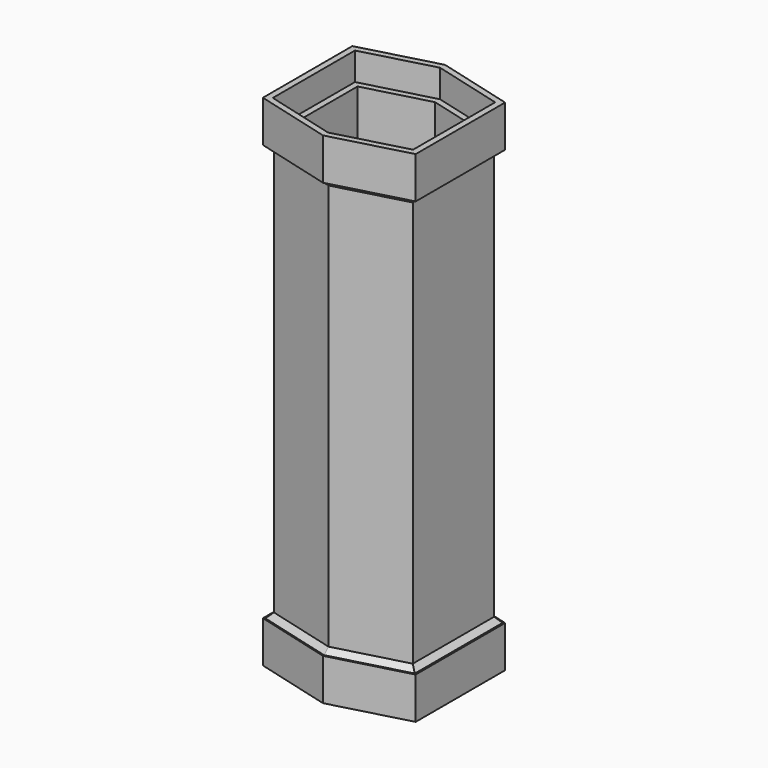
from build123d import *

# Parameters (mm, degrees)
PAD005_DEPTH = 180
PAD004_DEPTH = 10
PAD002_DEPTH = 15
PAD003_DEPTH = 10
PAD001_DEPTH = 15
PAD_DEPTH    = 150
CHAMFER_SIZE = 1.9


with BuildPart() as body005:
    # Sketch005 → Pad005 (new body)
    with BuildSketch(Plane.XY):
        Polygon((0, 23), (23, 16.837169), (23, -16.837169), (0, -23), (-23, -16.837169), (-23, 16.837169), align=None)
    extrude(amount=PAD005_DEPTH)


with BuildPart() as body004:
    # Sketch004 → Pad004 (new body)
    with BuildSketch(Plane.XY):
        Polygon((0, 25.25), (25.25, 18.484283), (25.25, -18.484283), (0, -25.25), (-25.25, -18.484283), (-25.25, 18.484283), align=None)
    extrude(amount=PAD004_DEPTH)


with BuildPart() as body004_1:
    # Body004 placement: moved
    add(body004.part.moved(Location((0, 0, 5))))


with BuildPart() as cut001:
    # Sketch002 → Pad002 (new body)
    with BuildSketch(Plane.XY):
        Polygon((0, 27.5), (27.5, 20.131397), (27.5, -20.131397), (0, -27.5), (-27.5, -20.131397), (-27.5, 20.131397), align=None)
    extrude(amount=PAD002_DEPTH)

    # Cut001: cut Body004
    add(body004_1.part, mode=Mode.SUBTRACT)


with BuildPart() as cut001_1:
    # Cut001 placement: moved
    add(cut001.part.moved(Location((0, 0, 165))))


with BuildPart() as body003:
    # Sketch003 → Pad003 (new body)
    with BuildSketch(Plane.XY):
        Polygon((0, 25.25), (25.25, 18.484283), (25.25, -18.484283), (0, -25.25), (-25.25, -18.484283), (-25.25, 18.484283), align=None)
    extrude(amount=PAD003_DEPTH)


with BuildPart() as cut:
    # Sketch001 → Pad001 (new body)
    with BuildSketch(Plane.XY):
        Polygon((0, 27.5), (27.5, 20.131397), (27.5, -20.131397), (0, -27.5), (-27.5, -20.131397), (-27.5, 20.131397), align=None)
    extrude(amount=PAD001_DEPTH)

    # Cut: cut Body003
    add(body003.part, mode=Mode.SUBTRACT)


with BuildPart() as chamfer_body:
    # Sketch → Pad (new body)
    with BuildSketch(Plane.XY):
        Polygon((0, 25), (25, 18.30127), (25, -18.30127), (0, -25), (-25, -18.30127), (-25, 18.30127), align=None)
    extrude(amount=PAD_DEPTH)


with BuildPart() as chamfer_body_1:
    # Body placement: moved
    add(chamfer_body.part.moved(Location((0, 0, 15))))

    # Fusion: union Cut
    add(cut.part)

    # Fusion001: union Cut001
    add(cut001_1.part)

    # Cut002: cut Body005
    add(body005.part, mode=Mode.SUBTRACT)

    # Chamfer
    chamfer_edges = [chamfer_body_1.edges().sort_by_distance(p)[0] for p in [
        (-25, 0, 165),
        (-12.5, -21.650635, 165),
        (12.5, -21.650635, 165),
        (25, 0, 165),
        (12.5, 21.650635, 165),
        (-12.5, 21.650635, 165),
        (-25, 0, 15),
        (-12.5, -21.650635, 15),
        (12.5, -21.650635, 15),
        (25, 0, 15),
        (12.5, 21.650635, 15),
        (-12.5, 21.650635, 15),
    ]]
    chamfer(chamfer_edges, length=CHAMFER_SIZE)


solid = chamfer_body_1.part
